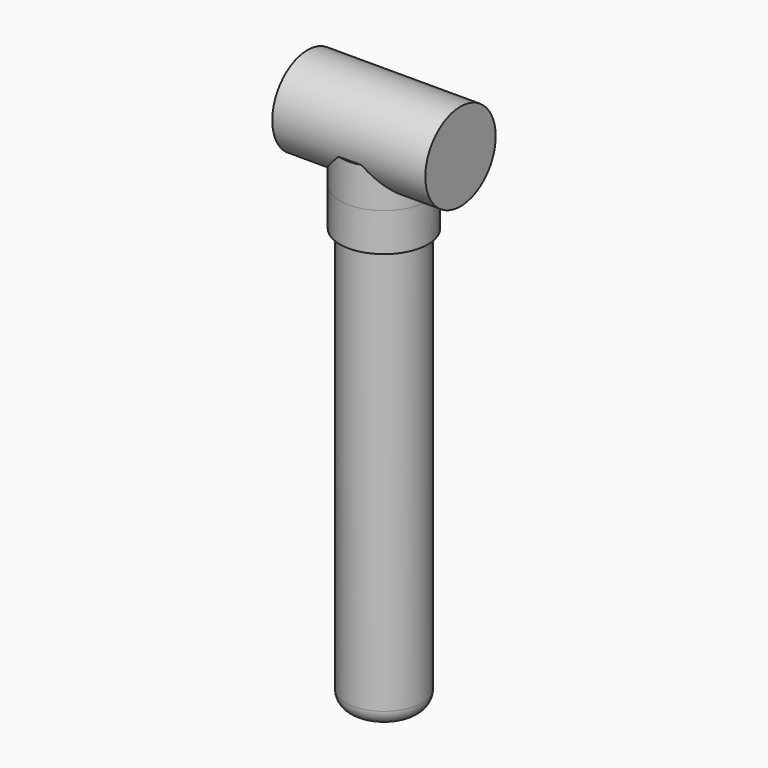
from build123d import *

# Parameters (mm, degrees)
F2_R     = 29.21
F2_R_2   = 25.4
F3_DEPTH = 25.4
F4_DEPTH = 25.4
F5_R     = 29.21
F6_DEPTH = 38.1
F7_DEPTH = 50.8
F8_R     = 10.16


with BuildPart() as f1:
    # F0 (on Front) → F1 (revolve)
    with BuildSketch(Plane.XZ):
        Polygon((25.4, 0), (0, 0), (0, -75.989135), (0, -304.8), (25.4, -304.8), align=None)
    revolve(axis=Axis((0, 0, -37.994567), (0, 0, -1)))

    # F2 (on Top) → F3 (join)
    with BuildSketch(Plane.XY):
        Circle(F2_R)
        Circle(F2_R_2, mode=Mode.SUBTRACT)
    extrude(amount=-F3_DEPTH)

    # F2 (on Top) → F4 (join)
    with BuildSketch(Plane.XY):
        Circle(F2_R)
        Circle(F2_R_2, mode=Mode.SUBTRACT)
    extrude(amount=F4_DEPTH)

    # F5 (on Right) → F6 (cut, symmetric)
    with BuildSketch(Plane.YZ):
        with Locations((0, 33.02)):
            Circle(F5_R)
    extrude(amount=F6_DEPTH, both=True, mode=Mode.SUBTRACT)

    # F5 (on Right) → F7 (join, symmetric)
    with BuildSketch(Plane.YZ):
        with Locations((0, 33.02)):
            Circle(F5_R)
    extrude(amount=F7_DEPTH, both=True)

    # F8
    f8_edges = [f1.edges().sort_by_distance(p)[0] for p in [
        (-25.4, 0, -304.8),
    ]]
    fillet(f8_edges, radius=F8_R)


solid = f1.part
